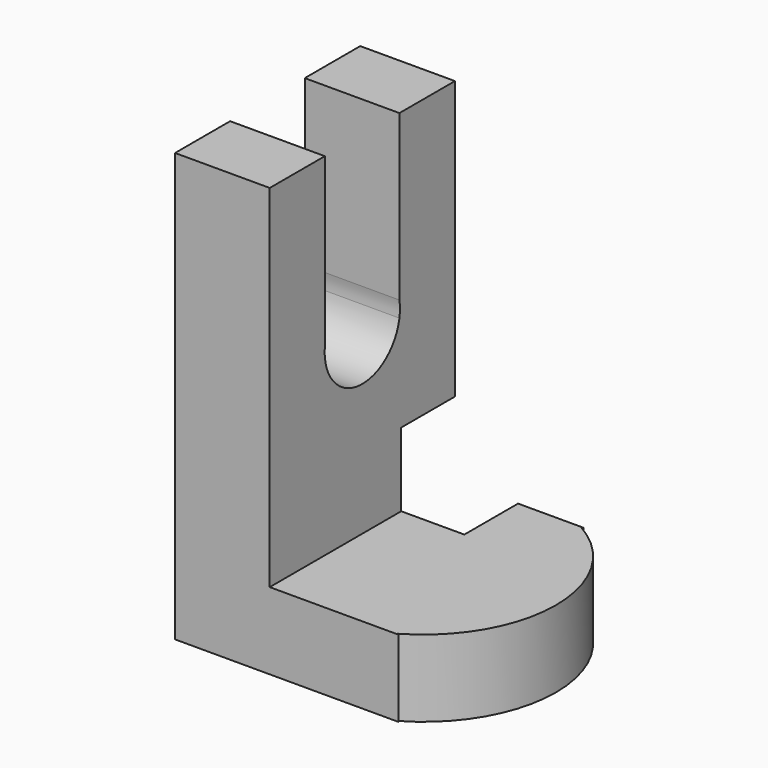
from build123d import *

# Parameters (mm, degrees)
F1_DEPTH = 25.4
F3_DEPTH = 25.4
F5_DEPTH = 25.4
F6_W     = 17.318182
F6_H     = 16.51
F7_DEPTH = 7.366


with BuildPart() as f1:
    # F0 (on Front) → F1 (new body)
    with BuildSketch(Plane.XZ):
        Polygon((0, 0), (31.634543, 0), (31.634543, 8.428182), (10.39091, 8.428182), (10.39091, 46.990003), (0, 46.990003), align=None)
    extrude(amount=F1_DEPTH)

    # F2 (on face) → F3 (cut)
    with BuildSketch(Plane.XY.offset(8.428182)):
        with BuildLine():
            ThreePointArc((24.34968, -0.09495), (31.634543, -12.7), (24.34968, -25.30505))
            ThreePointArc((24.34968, -25.30505), (46.19327, -12.7), (24.34968, -0.09495))
        make_face()
    extrude(amount=-F3_DEPTH, mode=Mode.SUBTRACT)

    # F4 (on face) → F5 (cut)
    with BuildSketch(Plane.YZ.offset(10.39091)):
        with BuildLine():
            Line((-17.84547, 27.61518), (-17.845491, 28.49549))
            ThreePointArc((-17.845491, 28.49549), (-17.864271, 28.055334), (-17.84547, 27.61518))
        make_face()
        with BuildLine():
            Line((-17.845925, 46.990003), (-17.845491, 28.49549))
            Line((-17.845491, 28.49549), (-17.84547, 27.61518))
            ThreePointArc((-17.84547, 27.61518), (-12.918515, 22.895384), (-7.609436, 27.180831))
            Line((-7.609436, 27.180831), (-7.609436, 28.93008))
            Line((-7.609436, 28.93008), (-7.609436, 46.990003))
            Line((-7.609436, 46.990003), (-17.845925, 46.990003))
        make_face()
        with BuildLine():
            Line((-7.609436, 28.93008), (-7.609436, 27.180831))
            ThreePointArc((-7.609436, 27.180831), (-7.534841, 28.055456), (-7.609436, 28.93008))
        make_face()
    extrude(amount=-F5_DEPTH, mode=Mode.SUBTRACT)

    # F6 (on face) → F7 (cut)
    with BuildSketch(Plane(origin=(0, 0, 0), x_dir=(-1, 0, 0), z_dir=(0, 1, 0))):
        with Locations((-8.659091, 8.255)):
            Rectangle(F6_W, F6_H)
    extrude(amount=-F7_DEPTH, mode=Mode.SUBTRACT)


solid = f1.part
